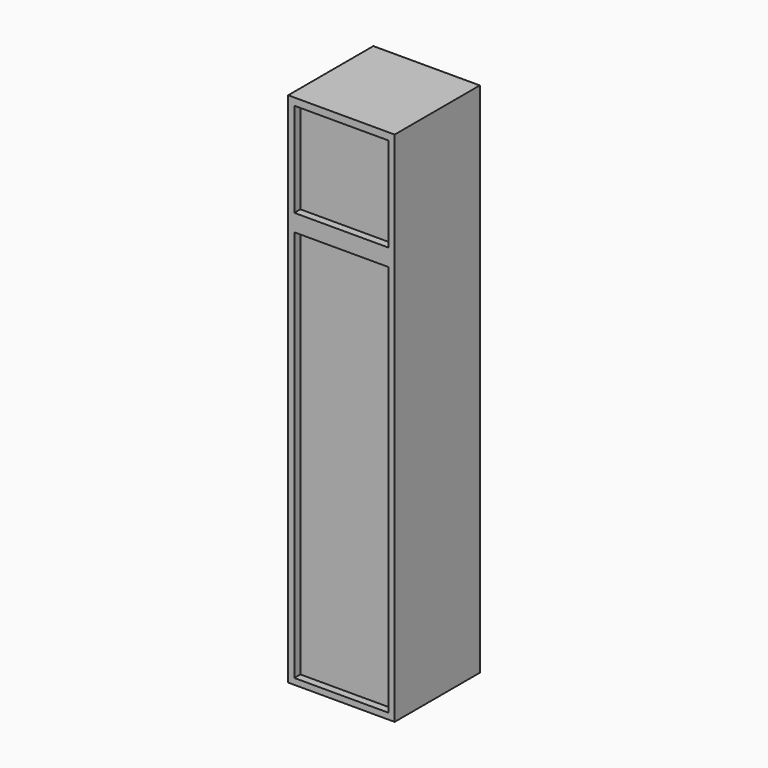
from build123d import *

# Parameters (mm, degrees)
F0_W     = 350
F0_H     = 1700
F1_DEPTH = 350
F2_W     = 310
F2_H     = 1290
F2_H_2   = 310
F3_DEPTH = 25


with BuildPart() as f1:
    # F0 (on Front) → F1 (new body)
    with BuildSketch(Plane.XZ):
        with Locations((133.61879, 795.426155)):
            Rectangle(F0_W, F0_H)
    extrude(amount=F1_DEPTH)

    # F2 (on face) → F3 (cut)
    with BuildSketch(Plane.XZ.offset(350)):
        with Locations((133.61879, 610.426155)):
            Rectangle(F2_W, F2_H)
        with Locations((133.61879, 1466.667943)):
            Rectangle(F2_W, F2_H_2)
    extrude(amount=-F3_DEPTH, mode=Mode.SUBTRACT)


solid = f1.part
